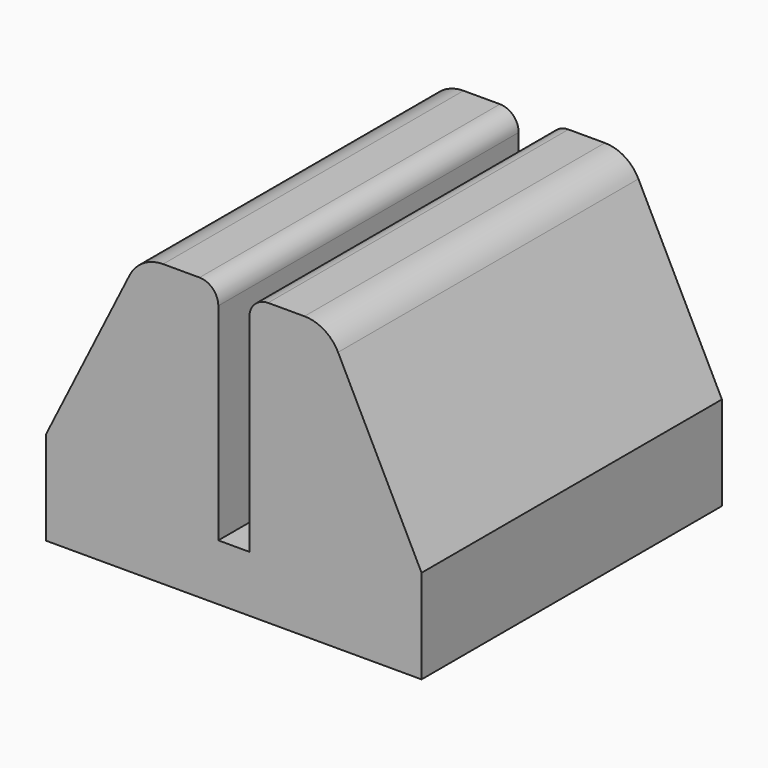
from build123d import *

# Parameters (mm, degrees)
SKETCH_W        = 20
SKETCH_H        = 20
PAD_DEPTH       = 15
SKETCH001_W     = 1.65
SKETCH001_H     = 20
POCKET_DEPTH    = 12
POCKET001_DEPTH = 20
FILLET_R        = 2
FILLET001_R     = 1


with BuildPart() as part:
    # Sketch → Pad (new body)
    with BuildSketch(Plane.XY):
        Rectangle(SKETCH_W, SKETCH_H)
    extrude(amount=PAD_DEPTH)

    # Sketch001 (on Face6 of Pad) → Pocket (cut)
    with BuildSketch(Plane.XY.offset(15)):
        Rectangle(SKETCH001_W, SKETCH001_H)
    extrude(amount=-POCKET_DEPTH, mode=Mode.SUBTRACT)

    # Sketch002 (on Face10 of Pocket) → Pocket001 (cut)
    with BuildSketch(Plane.XZ.offset(10)):
        Polygon((-10, 5), (-5, 15), (-10, 15), align=None)
    pocket001 = extrude(amount=-POCKET001_DEPTH, mode=Mode.SUBTRACT)

    # Mirrored: Pocket001 across Sketch002 V_Axis
    add(pocket001.mirror(Plane(origin=(0, -10, 0), x_dir=(0, -1, 0), z_dir=(1, 0, 0))), mode=Mode.SUBTRACT)

    # Fillet
    fillet_edges = [part.edges().sort_by_distance(p)[0] for p in [
        (5, 0, 15),
        (-5, 0, 15),
    ]]
    fillet(fillet_edges, radius=FILLET_R)

    # Fillet001
    fillet001_edges = [part.edges().sort_by_distance(p)[0] for p in [
        (-0.825, 0, 15),
        (0.825, 0, 15),
    ]]
    fillet(fillet001_edges, radius=FILLET001_R)


solid = part.part
